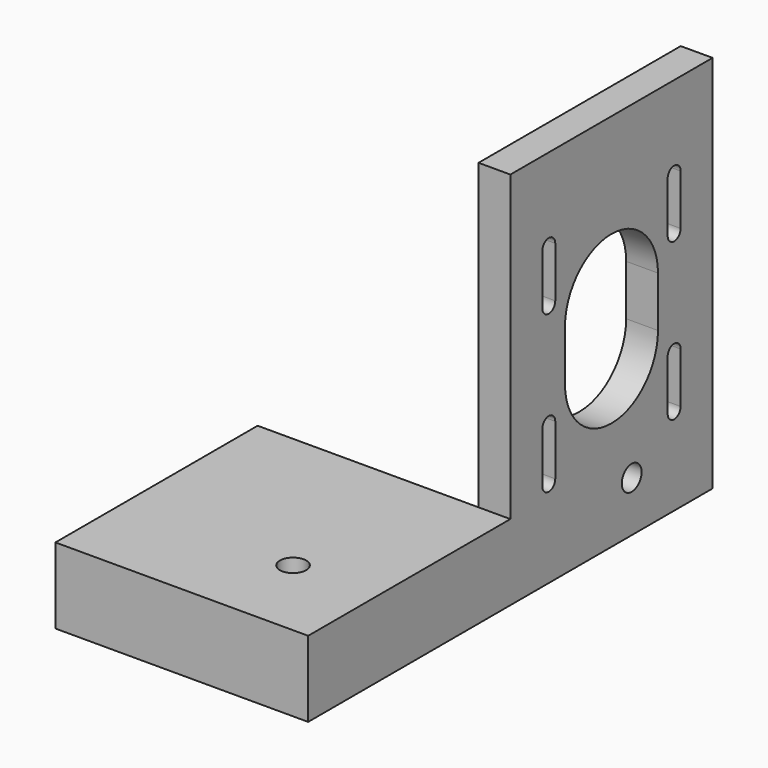
from build123d import *

# Parameters (mm, degrees)
SKETCH_W        = 50
SKETCH_H        = 50
PAD_DEPTH       = 15
SKETCH001_W     = 6.3
SKETCH001_H     = 50
PAD001_DEPTH    = 75
SKETCH002_R     = 2.45
POCKET_DEPTH    = 13
SKETCH004_R     = 2.6
POCKET001_DEPTH = 85.001


with BuildPart() as part:
    # Sketch → Pad (new body)
    with BuildSketch(Plane.XY):
        with Locations((-25, -25)):
            Rectangle(SKETCH_W, SKETCH_H)
    extrude(amount=PAD_DEPTH)

    # Sketch001 → Pad001 (join)
    with BuildSketch(Plane.XY):
        with Locations((-3.15, 25)):
            Rectangle(SKETCH001_W, SKETCH001_H)
    extrude(amount=PAD001_DEPTH)

    # Sketch002 (on Face12 of Pad001) → Pocket (cut)
    with BuildSketch(Plane.YZ):
        with Locations((30, 10)):
            Circle(SKETCH002_R)
        with BuildLine():
            ThreePointArc((42.1, 58.5), (40.5, 60.1), (38.9, 58.5))
            Line((38.9, 58.5), (38.9, 48.5))
            ThreePointArc((38.9, 48.5), (40.5, 46.9), (42.1, 48.5))
            Line((42.1, 58.5), (42.1, 48.5))
        make_face()
        with BuildLine():
            ThreePointArc((42.1, 27.5), (40.5, 29.1), (38.9, 27.5))
            Line((38.9, 27.5), (38.9, 17.5))
            ThreePointArc((38.9, 17.5), (40.5, 15.9), (42.1, 17.5))
            Line((42.1, 27.5), (42.1, 17.5))
        make_face()
        with BuildLine():
            ThreePointArc((11.1, 58.5), (9.5, 60.1), (7.9, 58.5))
            Line((7.9, 58.5), (7.9, 48.5))
            ThreePointArc((7.9, 48.5), (9.5, 46.9), (11.1, 48.5))
            Line((11.1, 58.5), (11.1, 48.5))
        make_face()
        with BuildLine():
            ThreePointArc((11.1, 27.5), (9.5, 29.1), (7.9, 27.5))
            Line((7.9, 27.5), (7.9, 17.5))
            ThreePointArc((7.9, 17.5), (9.5, 15.9), (11.1, 17.5))
            Line((11.1, 27.5), (11.1, 17.5))
        make_face()
        with BuildLine():
            ThreePointArc((36.5, 43), (25, 54.5), (13.5, 43))
            Line((13.5, 43), (13.5, 33))
            ThreePointArc((13.5, 33), (25, 21.5), (36.5, 33))
            Line((36.5, 43), (36.5, 33))
        make_face()
    extrude(amount=-POCKET_DEPTH, mode=Mode.SUBTRACT)

    # Sketch004 → Pocket001 (cut, through all)
    with BuildSketch(Plane(origin=(0, 0, -10), x_dir=(1, 0, 0), z_dir=(0, 0, -1))):
        with Locations((-16.55, 33.05)):
            Circle(SKETCH004_R)
    extrude(amount=-POCKET001_DEPTH, mode=Mode.SUBTRACT)


solid = part.part
